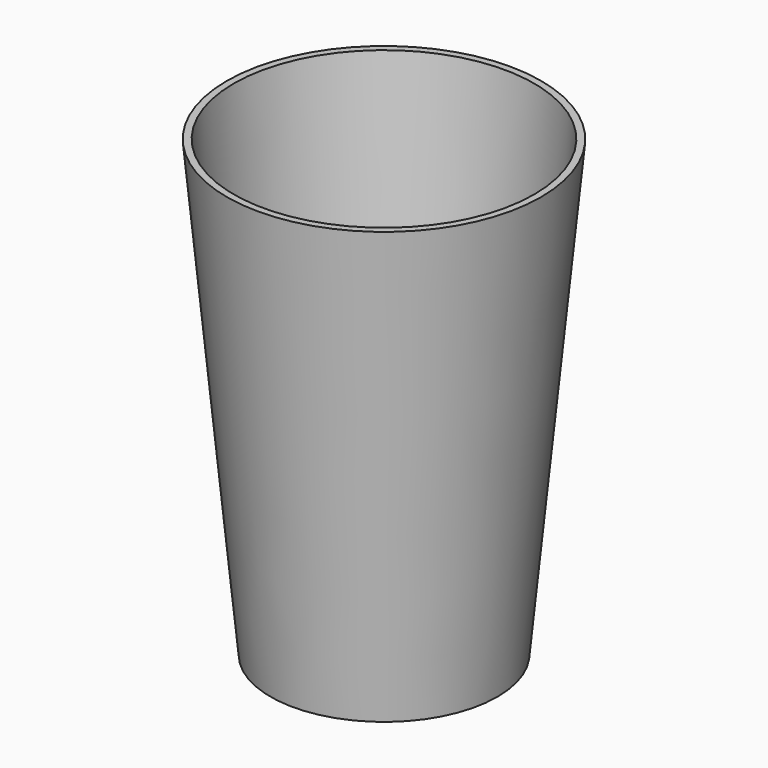
from build123d import *


with BuildPart() as part:
    # Sketch → Revolution (revolve)
    with BuildSketch(Plane.XZ):
        Polygon((0, 0), (32.5, 0), (45, 130), (43, 130), (30.692308, 2), (0, 2), align=None)
    revolve(axis=Axis((0, 0, 0), (0, 0, 1)))


solid = part.part
